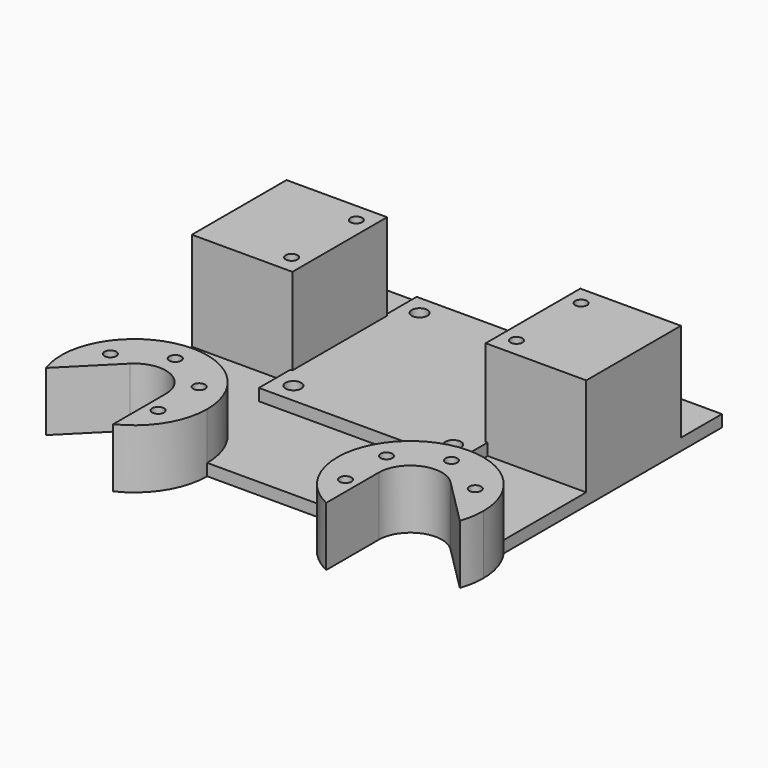
from build123d import *

# Parameters (mm, degrees)
F0_W            = 100
F0_H            = 80
F1_DEPTH        = 3
F4_DEPTH        = 15
F6_DEPTH        = 15.001
F3_W            = 25.5
F3_H            = 30
F7_DEPTH        = 28
F8_W            = 50
F8_H            = 50
F9_DEPTH        = 6
F10_D           = 4
F10_CBORE_D     = 6.5
F10_CBORE_DEPTH = 3
F11_D           = 3
F11_CBORE_D     = 6.5
F11_CBORE_DEPTH = 3
F12_D           = 3
F12_CBORE_D     = 5
F12_CBORE_DEPTH = 3


with BuildPart() as f1:
    # F0 (on Top) → F1 (new body)
    with BuildSketch(Plane.XY):
        Rectangle(F0_W, F0_H)
    extrude(amount=F1_DEPTH)

    # F2 (on face) → F4 (join)
    with BuildSketch(Plane(origin=(0, 0, 0), x_dir=(1, 0, 0), z_dir=(0, 0, -1))):
        with BuildLine():
            Line((-50, 40), (-16.5, 40))
            ThreePointArc((-16.5, 40), (-40.6899033384, 57.6032667423), (-50, 29.1717960861))
            Line((-50, 29.1717960861), (-50, 40))
        make_face()
        with BuildLine():
            ThreePointArc((-50, 29.1717960861), (-29.3100966616, 22.3967332577), (-16.5, 40))
            Line((-16.5, 40), (-50, 40))
            Line((-50, 40), (-50, 29.1717960861))
        make_face()
        with BuildLine():
            Line((50, 40), (16.5, 40))
            ThreePointArc((16.5, 40), (29.3100966616, 22.3967332577), (50, 29.1717960861))
            Line((50, 29.1717960861), (50, 40))
        make_face()
        with BuildLine():
            ThreePointArc((53.5, 40), (35, 58.5), (16.5, 40))
            Line((16.5, 40), (50, 40))
            Line((50, 40), (50, 29.1717960861))
            ThreePointArc((50, 29.1717960861), (52.6032667423, 34.3100966616), (53.5, 40))
        make_face()
    extrude(amount=-F4_DEPTH)

    # F5 (on face) → F6 (cut, through all)
    with BuildSketch(Plane.XY.offset(15)):
        with BuildLine():
            Line((-27, -56.6808273176), (-27, -40))
            ThreePointArc((-27, -40), (-31.9385325411, -32.6089637399), (-40.6568542495, -34.3431457505))
            Line((-40.6568542495, -34.3431457505), (-52.4519803616, -46.1382718626))
            ThreePointArc((-52.4519803616, -46.1382718626), (-42.0796434988, -57.0917713515), (-27, -56.6808273176))
        make_face()
        with BuildLine():
            ThreePointArc((40.6568542495, -34.3431457505), (31.9385325411, -32.6089637399), (27, -40))
            Line((27, -40), (27, -56.6808273176))
            ThreePointArc((27, -56.6808273176), (42.0796434988, -57.0917713515), (52.4519803616, -46.1382718626))
            Line((52.4519803616, -46.1382718626), (40.6568542495, -34.3431457505))
        make_face()
    extrude(amount=-F6_DEPTH, mode=Mode.SUBTRACT)

    # F3 (on Top) → F7 (join)
    with BuildSketch(Plane.XY):
        with Locations((-37.25, 12)):
            Rectangle(F3_W, F3_H)
        with Locations((37.25, 12)):
            Rectangle(F3_W, F3_H)
    extrude(amount=F7_DEPTH)

    # F8 (on Top) → F9 (join)
    with BuildSketch(Plane.XY):
        with Locations((0, 12)):
            Rectangle(F8_W, F8_H)
    extrude(amount=F9_DEPTH)

    # F10 (through all)
    with Locations(Plane(origin=(0, 0, 0), x_dir=(1, 0, 0), z_dir=(0, 0, -1))):
        with Locations((-20.25, 8), (20.25, 8), (-20.25, -32), (20.25, -32)):
            CounterBoreHole(F10_D / 2, F10_CBORE_D / 2, F10_CBORE_DEPTH)

    # F11 (through all)
    with Locations(Plane(origin=(0, 0, 0), x_dir=(1, 0, 0), z_dir=(0, 0, -1))):
        with Locations((-46.2583302492, 33.5), (-46.2583302492, 46.5), (-23.7416697508, 46.5), (-23.7416697508, 33.5), (-35, 27), (23.7416697508, 46.5), (46.2583302492, 46.5), (46.2583302492, 33.5), (35, 27), (23.7416697508, 33.5)):
            CounterBoreHole(F11_D / 2, F11_CBORE_D / 2, F11_CBORE_DEPTH)

    # F12 (through all)
    with Locations(Plane(origin=(0, 0, 0), x_dir=(1, 0, 0), z_dir=(0, 0, -1))):
        with Locations((-28.5, -22.25), (-28.5, -1.75), (28.5, -22.25), (28.5, -1.75)):
            CounterBoreHole(F12_D / 2, F12_CBORE_D / 2, F12_CBORE_DEPTH)


solid = f1.part
